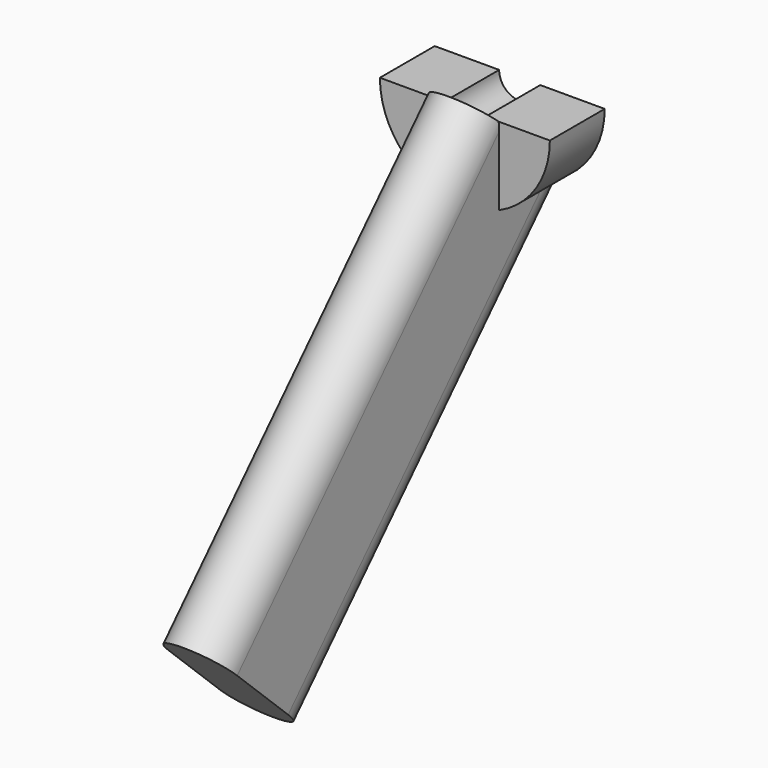
from build123d import *

# Parameters (mm, degrees)
F1_DEPTH = 25
F5_DEPTH = 176


with BuildPart() as f1:
    # F0 (on Front) → F1 (new body)
    with BuildSketch(Plane.XZ):
        with BuildLine():
            ThreePointArc((-31, 0), (0, -31), (31, 0))
            Line((31, 0), (7.5, 0))
            ThreePointArc((7.5, 0), (0, -7.5), (-7.5, 0))
            Line((-7.5, 0), (-31, 0))
        make_face()
    extrude(amount=F1_DEPTH)

    # F4 (on face) → F5 (join)
    with BuildSketch(Plane(origin=(0, -11.816696451, -12.4813098776), x_dir=(1, 0, 0), z_dir=(0, -0.6875084422, -0.7261763849))):
        with BuildLine():
            Line((-12.5, 16), (0, 16))
            Line((0, 16), (12.5, 16))
            ThreePointArc((12.5, 16), (0, 28.5), (-12.5, 16))
        make_face()
        with BuildLine():
            Line((0, 16), (0, 3.5))
            ThreePointArc((0, 3.5), (8.8388347648, 7.1611652352), (12.5, 16))
            Line((12.5, 16), (0, 16))
        make_face()
        with BuildLine():
            ThreePointArc((-12.5, 16), (-8.8388347648, 7.1611652352), (0, 3.5))
            Line((0, 3.5), (0, 16))
            Line((0, 16), (-12.5, 16))
        make_face()
        with BuildLine():
            Line((0, -16), (0, -3.5))
            ThreePointArc((0, -3.5), (-8.8388347648, -7.1611652352), (-12.5, -16))
            ThreePointArc((-12.5, -16), (0, -28.5), (12.5, -16))
            Line((12.5, -16), (0, -16))
        make_face()
        with BuildLine():
            Line((0, 3.5), (0, 0))
            Line((0, 0), (0, -3.5))
            ThreePointArc((0, -3.5), (8.8388347648, -7.1611652352), (12.5, -16))
            Line((12.5, -16), (12.5, 16))
            ThreePointArc((12.5, 16), (8.8388347648, 7.1611652352), (0, 3.5))
        make_face()
        with BuildLine():
            Line((0, -3.5), (0, 0))
            Line((0, 0), (0, 3.5))
            ThreePointArc((0, 3.5), (-8.8388347648, 7.1611652352), (-12.5, 16))
            Line((-12.5, 16), (-12.5, -16))
            ThreePointArc((-12.5, -16), (-8.8388347648, -7.1611652352), (0, -3.5))
        make_face()
        with BuildLine():
            ThreePointArc((12.5, -16), (8.8388347648, -7.1611652352), (0, -3.5))
            Line((0, -3.5), (0, -16))
            Line((0, -16), (12.5, -16))
        make_face()
    extrude(amount=F5_DEPTH)


solid = f1.part
